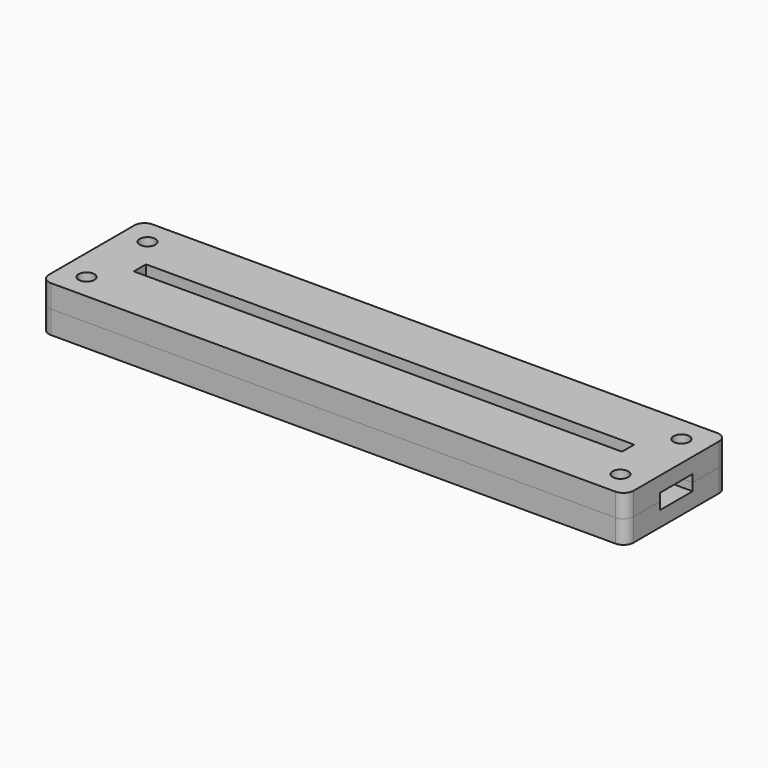
from build123d import *

# Parameters (mm, degrees)
BOX_BOTTOM_HALF_0_W     = 117
BOX_BOTTOM_HALF_0_H     = 27
BOX_BOTTOM_HALF_0_DEPTH = 5.5
SKETCH_W                = 115
SKETCH_H                = 25
PAD_DEPTH               = 3
PAD001_DEPTH            = 3
SKETCH002_W             = 115
SKETCH002_H             = 25
SKETCH002_W_2           = 96
SKETCH002_H_2           = 3
PAD002_DEPTH            = 3
SKETCH003_R             = 1.55
POCKET_DEPTH            = 245.060315
POLARPATTERN_COUNT      = 2
POLARPATTERN001_COUNT   = 2
POLARPATTERN002_COUNT   = 2
FILLET_R                = 2
SKETCH004_R             = 12.75
POCKET001_DEPTH         = 3
POCKET002_DEPTH         = 3
FILLET001_R             = 0.4
FILLET002_R             = 2


with BuildPart() as box_bottom_half_0_body:
    # box_bottom_half_0 → box_bottom_half_0 (new body)
    with BuildSketch(Plane(origin=(-58.5, -13.5, -1), x_dir=(1, 0, 0), z_dir=(0, 0, 1))):
        with Locations((58.5, 13.5)):
            Rectangle(BOX_BOTTOM_HALF_0_W, BOX_BOTTOM_HALF_0_H)
    extrude(amount=BOX_BOTTOM_HALF_0_DEPTH)


with BuildPart() as body:
    # Sketch → Pad (new body)
    with BuildSketch(Plane.XY):
        Rectangle(SKETCH_W, SKETCH_H)
    extrude(amount=PAD_DEPTH)

    # Sketch001 (on Face6 of Pad) → Pad001 (join)
    with BuildSketch(Plane.XY.offset(3)):
        Polygon((-57.5, 12.5), (57.5, 12.5), (57.5, 4), (50, 4), (50, 5), (-50, 5), (-50, 4), (-57.5, 4), align=None)
        Polygon((-57.5, -12.5), (57.5, -12.5), (57.5, -4), (50, -4), (50, -5), (-50, -5), (-50, -4), (-57.5, -4), align=None)
    extrude(amount=PAD001_DEPTH)

    # Sketch002 (on Face12 of Pad001) → Pad002 (join)
    with BuildSketch(Plane.XY.offset(6)):
        Rectangle(SKETCH002_W, SKETCH002_H)
        Rectangle(SKETCH002_W_2, SKETCH002_H_2, mode=Mode.SUBTRACT)
    extrude(amount=PAD002_DEPTH)

    # Sketch003 (on Face26 of Pad002) → Pocket (cut, through all)
    with BuildSketch(Plane.XY.offset(9)):
        with Locations((-52.5, 7.5)):
            Circle(SKETCH003_R)
    pocket = extrude(amount=-POCKET_DEPTH, mode=Mode.SUBTRACT)

    # PolarPattern: Pocket ×2 about axis
    polarpattern_axis = Axis((0, 0, 0), (0, 1, 0))
    for i in range(1, POLARPATTERN_COUNT):
        add(pocket.rotate(polarpattern_axis, i * 360 / POLARPATTERN_COUNT), mode=Mode.SUBTRACT)

    # PolarPattern001: Pocket ×2 about axis
    polarpattern001_axis = Axis((0, 0, 0), (1, 0, 0))
    for i in range(1, POLARPATTERN001_COUNT):
        add(pocket.rotate(polarpattern001_axis, i * 360 / POLARPATTERN001_COUNT), mode=Mode.SUBTRACT)

    # PolarPattern002: Pocket ×2 about axis
    polarpattern002_axis = Axis((0, 0, 9), (0, 0, 1))
    for i in range(1, POLARPATTERN002_COUNT):
        add(pocket.rotate(polarpattern002_axis, i * 360 / POLARPATTERN002_COUNT), mode=Mode.SUBTRACT)

    # Fillet
    fillet_edges = [body.edges().sort_by_distance(p)[0] for p in [
        (57.5, 12.5, 7.5),
        (57.5, 12.5, 4.5),
        (57.5, 12.5, 1.5),
        (57.5, -12.5, 7.5),
        (-57.5, 12.5, 7.5),
        (-57.5, -12.5, 7.5),
    ]]
    fillet(fillet_edges, radius=FILLET_R)

    # Sketch004 (on Face2 of Fillet) → Pocket001 (cut)
    with BuildSketch(Plane(origin=(0, 0, 0), x_dir=(1, 0, 0), z_dir=(0, 0, -1))):
        with Locations((0, -4.31247)):
            Circle(SKETCH004_R)
    extrude(amount=-POCKET001_DEPTH, mode=Mode.SUBTRACT)

    # Sketch005 (on Face2 of Pocket001) → Pocket002 (cut)
    with BuildSketch(Plane(origin=(0, 0, 0), x_dir=(1, 0, 0), z_dir=(0, 0, -1))):
        Polygon((0.086598, 10.584693), (-50.025204, 10.584693), (-50.025204, 6.371434), (-55.624748, 3.161258), (-55.624748, -3.408425), (-50.493088, -3.376352), (-45.134857, 4.115264), (-43.691578, 5.783052), (0.086598, 5.783052), align=None)
    extrude(amount=-POCKET002_DEPTH, mode=Mode.SUBTRACT)

    # Fillet001
    fillet001_edges = [body.edges().sort_by_distance(p)[0] for p in [
        (-7.787357, -5.783052, 1.5),
    ]]
    fillet(fillet001_edges, radius=FILLET001_R)

    # Fillet002
    fillet002_edges = [body.edges().sort_by_distance(p)[0] for p in [
        (0.086598, -8.437236, 1.5),
    ]]
    fillet(fillet002_edges, radius=FILLET002_R)


with BuildPart() as bottom_half_0_body:
    # bottom_half_0 base: copy of Body
    add(body.part)

    # bottom_half_0: intersect box_bottom_half_0 body
    add(box_bottom_half_0_body.part, mode=Mode.INTERSECT)


with BuildPart() as top_half_0_body:
    # top_half_0 base: copy of Body
    add(body.part)

    # top_half_0: cut box_bottom_half_0 body
    add(box_bottom_half_0_body.part, mode=Mode.SUBTRACT)


solid = Compound([bottom_half_0_body.part, top_half_0_body.part])
